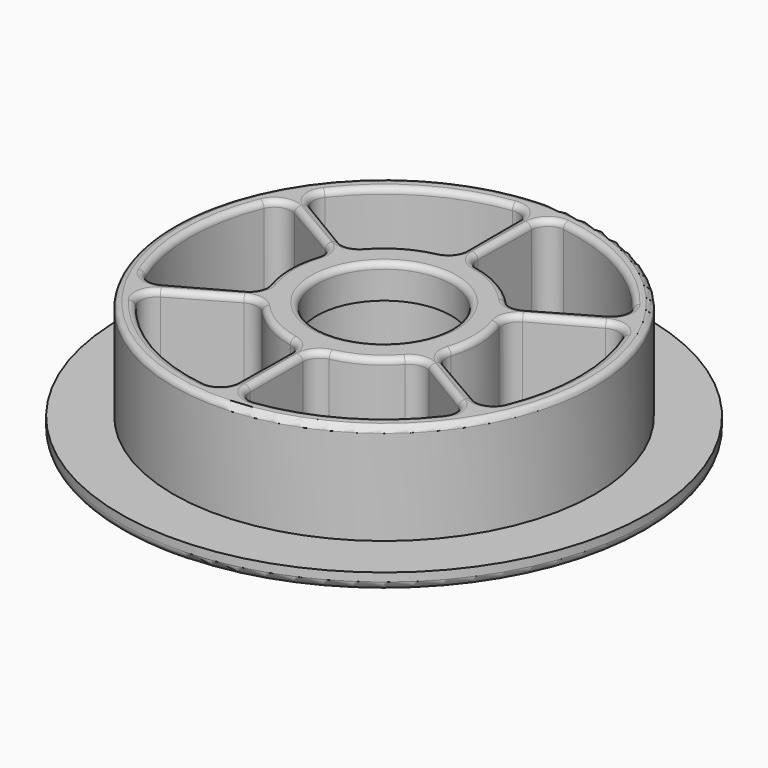
from build123d import *

# Parameters (mm, degrees)
F0_R     = 31.5
F0_R_2   = 25.15
F1_DEPTH = 2
F0_R_3   = 9.7
F2_DEPTH = 14
F0_R_4   = 8
F3_DEPTH = 14
F4_DEPTH = 10
F5_R     = 1
F6_R     = 0.7


with BuildPart() as f1:
    # F0 (on Top) → F1 (new body)
    with BuildSketch(Plane.XY):
        Circle(F0_R)
        Circle(F0_R_2, mode=Mode.SUBTRACT)
    extrude(amount=F1_DEPTH)

    # F0 (on Top) → F2 (join)
    with BuildSketch(Plane.XY):
        Circle(F0_R_2)
        with BuildLine():
            ThreePointArc((-18.3511541082, -14.1123223779), (-18.7275186797, -12.5039761813), (-17.7657412263, -11.1610644535))
            Line((-17.7657412263, -11.1610644535), (-10.9508618467, -7.2264920092))
            ThreePointArc((-10.9508618467, -7.2264920092), (-9.6379242044, -6.9831770197), (-8.464479098, -7.6203850067))
            ThreePointArc((-8.464479098, -7.6203850067), (-5.6488947275, -9.8897756501), (-2.2638099833, -11.1621162156))
            ThreePointArc((-2.2638099833, -11.1621162156), (-1.1031831853, -11.8683580148), (-0.6615805271, -13.1532000812))
            Line((-0.6615805271, -13.1532000812), (-0.78313484, -20.997105041))
            ThreePointArc((-0.78313484, -20.997105041), (-1.4766966142, -22.4806604152), (-3.0460526316, -22.9487268354))
            ThreePointArc((-3.0460526316, -22.9487268354), (-11.575, -20.0484880976), (-18.3511541082, -14.1123223779))
        make_face(mode=Mode.SUBTRACT)
        with BuildLine():
            Line((0.7828947368, -20.9661154457), (0.7828947368, -13.0969705571))
            ThreePointArc((0.7828947368, -13.0969705571), (1.228646596, -11.8382757106), (2.3672074535, -11.140646432))
            ThreePointArc((2.3672074535, -11.140646432), (5.740349587, -9.8369741623), (8.534771211, -7.5415750627))
            ThreePointArc((8.534771211, -7.5415750627), (9.7267079494, -6.8895636709), (11.0602151478, -7.1495455838))
            Line((11.0602151478, -7.1495455838), (17.7924589514, -11.1767671865))
            ThreePointArc((17.7924589514, -11.1767671865), (18.7304747063, -12.5191869892), (18.3511541082, -14.1123223779))
            ThreePointArc((18.3511541082, -14.1123223779), (11.575, -20.0484880976), (3.0460526316, -22.9487268354))
            ThreePointArc((3.0460526316, -22.9487268354), (1.4650016815, -22.4704950171), (0.7828947368, -20.9661154457))
        make_face(mode=Mode.SUBTRACT)
        with BuildLine():
            ThreePointArc((-21.3972067398, 8.8364044575), (-20.1925203612, 9.9665188358), (-18.5486359631, 9.8050509923))
            Line((-18.5486359631, 9.8050509923), (-11.7337565835, 5.870478548))
            ThreePointArc((-11.7337565835, 5.870478548), (-10.8665708004, 4.8550986909), (-10.8316865514, 3.5202614253))
            ThreePointArc((-10.8316865514, 3.5202614253), (-11.3892443144, -0.0528014877), (-10.7985811944, -3.6205411529))
            ThreePointArc((-10.7985811944, -3.6205411529), (-10.8298911347, -4.9787943439), (-11.721795675, -6.0036544975))
            Line((-11.721795675, -6.0036544975), (-18.5755937915, -9.8203378545))
            ThreePointArc((-18.5755937915, -9.8203378545), (-20.2071713205, -9.961473426), (-21.3972067398, -8.8364044575))
            ThreePointArc((-21.3972067398, -8.8364044575), (-23.15, 0), (-21.3972067398, 8.8364044575))
        make_face(mode=Mode.SUBTRACT)
        with BuildLine():
            ThreePointArc((-3.0460526316, 22.9487268354), (-1.4650016815, 22.4704950171), (-0.7828947368, 20.9661154457))
            Line((-0.7828947368, 20.9661154457), (-0.7828947368, 13.0969705571))
            ThreePointArc((-0.7828947368, 13.0969705571), (-1.228646596, 11.8382757106), (-2.3672074535, 11.140646432))
            ThreePointArc((-2.3672074535, 11.140646432), (-5.740349587, 9.8369741623), (-8.534771211, 7.5415750627))
            ThreePointArc((-8.534771211, 7.5415750627), (-9.7267079494, 6.8895636709), (-11.0602151478, 7.1495455838))
            Line((-11.0602151478, 7.1495455838), (-17.7924589514, 11.1767671865))
            ThreePointArc((-17.7924589514, 11.1767671865), (-18.7304747063, 12.5191869892), (-18.3511541082, 14.1123223779))
            ThreePointArc((-18.3511541082, 14.1123223779), (-11.575, 20.0484880976), (-3.0460526316, 22.9487268354))
        make_face(mode=Mode.SUBTRACT)
        Circle(F0_R_3, mode=Mode.SUBTRACT)
        with BuildLine():
            ThreePointArc((18.3511541082, 14.1123223779), (18.7275186797, 12.5039761813), (17.7657412263, 11.1610644535))
            Line((17.7657412263, 11.1610644535), (10.9508618467, 7.2264920092))
            ThreePointArc((10.9508618467, 7.2264920092), (9.6379242044, 6.9831770197), (8.464479098, 7.6203850067))
            ThreePointArc((8.464479098, 7.6203850067), (5.6488947275, 9.8897756501), (2.2638099833, 11.1621162156))
            ThreePointArc((2.2638099833, 11.1621162156), (1.1031831853, 11.8683580148), (0.6615805271, 13.1532000812))
            Line((0.6615805271, 13.1532000812), (0.78313484, 20.997105041))
            ThreePointArc((0.78313484, 20.997105041), (1.4766966142, 22.4806604152), (3.0460526316, 22.9487268354))
            ThreePointArc((3.0460526316, 22.9487268354), (11.575, 20.0484880976), (18.3511541082, 14.1123223779))
        make_face(mode=Mode.SUBTRACT)
        with BuildLine():
            ThreePointArc((21.3972067398, -8.8364044575), (20.1925203612, -9.9665188358), (18.5486359631, -9.8050509923))
            Line((18.5486359631, -9.8050509923), (11.7337565835, -5.870478548))
            ThreePointArc((11.7337565835, -5.870478548), (10.8665708004, -4.8550986909), (10.8316865514, -3.5202614253))
            ThreePointArc((10.8316865514, -3.5202614253), (11.3892443144, 0.0528014877), (10.7985811944, 3.6205411529))
            ThreePointArc((10.7985811944, 3.6205411529), (10.8298911347, 4.9787943439), (11.721795675, 6.0036544975))
            Line((11.721795675, 6.0036544975), (18.5755937915, 9.8203378545))
            ThreePointArc((18.5755937915, 9.8203378545), (20.2071713205, 9.961473426), (21.3972067398, 8.8364044575))
            ThreePointArc((21.3972067398, 8.8364044575), (23.15, 0), (21.3972067398, -8.8364044575))
        make_face(mode=Mode.SUBTRACT)
    extrude(amount=F2_DEPTH)

    # F0 (on Top) → F3 (join)
    with BuildSketch(Plane.XY):
        Circle(F0_R_3)
        Circle(F0_R_4, mode=Mode.SUBTRACT)
    extrude(amount=F3_DEPTH)

    # F0 (on Top) → F4 (cut)
    with BuildSketch(Plane.XY):
        Circle(F0_R_3)
        Circle(F0_R_4, mode=Mode.SUBTRACT)
    extrude(amount=F4_DEPTH, mode=Mode.SUBTRACT)

    # F5
    f5_edges = [f1.edges().sort_by_distance(p)[0] for p in [
        (-31.5, 0, 0),
    ]]
    fillet(f5_edges, radius=F5_R)

    # F6
    f6_edges = [f1.edges().sort_by_distance(p)[0] for p in [
        (-25.15, 0, 14),
        (-18.727519, -12.503976, 14),
        (-14.358302, -9.193778, 14),
        (-9.637924, -6.983177, 14),
        (-5.648895, -9.889776, 14),
        (-1.103183, -11.868358, 14),
        (-0.722358, -17.075153, 14),
        (-1.476697, -22.48066, 14),
        (-11.575, -20.048488, 14),
        (1.465002, -22.470495, 14),
        (0.782895, -17.031543, 14),
        (1.228647, -11.838276, 14),
        (5.74035, -9.836974, 14),
        (9.726708, -6.889564, 14),
        (14.426337, -9.163156, 14),
        (18.730475, -12.519187, 14),
        (11.575, -20.048488, 14),
        (-23.15, 0, 14),
        (-20.19252, 9.966519, 14),
        (-15.141196, 7.837765, 14),
        (-10.866571, 4.855099, 14),
        (-11.389244, -0.052801, 14),
        (-10.829891, -4.978794, 14),
        (-15.148695, -7.911996, 14),
        (-20.207171, -9.961473, 14),
        (-18.730475, 12.519187, 14),
        (-11.575, 20.048488, 14),
        (-1.465002, 22.470495, 14),
        (-0.782895, 17.031543, 14),
        (-1.228647, 11.838276, 14),
        (-5.74035, 9.836974, 14),
        (-9.726708, 6.889564, 14),
        (-14.426337, 9.163156, 14),
        (11.575, 20.048488, 14),
        (18.727519, 12.503976, 14),
        (14.358302, 9.193778, 14),
        (9.637924, 6.983177, 14),
        (5.648895, 9.889776, 14),
        (1.103183, 11.868358, 14),
        (0.722358, 17.075153, 14),
        (1.476697, 22.48066, 14),
        (23.15, 0, 14),
        (20.19252, -9.966519, 14),
        (15.141196, -7.837765, 14),
        (10.866571, -4.855099, 14),
        (11.389244, 0.052801, 14),
        (10.829891, 4.978794, 14),
        (15.148695, 7.911996, 14),
        (20.207171, 9.961473, 14),
        (-8, 0, 14),
        (-30.5, 0, 0),
        (-18.727519, -12.503976, 0),
        (-11.575, -20.048488, 0),
        (-14.358302, -9.193778, 0),
        (-1.476697, -22.48066, 0),
        (-9.637924, -6.983177, 0),
        (-0.722358, -17.075153, 0),
        (-5.648895, -9.889776, 0),
        (-1.103183, -11.868358, 0),
        (1.465002, -22.470495, 0),
        (11.575, -20.048488, 0),
        (0.782895, -17.031543, 0),
        (18.730475, -12.519187, 0),
        (1.228647, -11.838276, 0),
        (14.426337, -9.163156, 0),
        (5.74035, -9.836974, 0),
        (9.726708, -6.889564, 0),
        (-23.15, 0, 0),
        (-20.207171, -9.961473, 0),
        (-20.19252, 9.966519, 0),
        (-15.148695, -7.911996, 0),
        (-15.141196, 7.837765, 0),
        (-10.829891, -4.978794, 0),
        (-10.866571, 4.855099, 0),
        (-11.389244, -0.052801, 0),
        (-18.730475, 12.519187, 0),
        (-14.426337, 9.163156, 0),
        (-11.575, 20.048488, 0),
        (-9.726708, 6.889564, 0),
        (-1.465002, 22.470495, 0),
        (-5.74035, 9.836974, 0),
        (-0.782895, 17.031543, 0),
        (-1.228647, 11.838276, 0),
        (-9.7, 0, 0),
        (20.207171, 9.961473, 0),
        (15.148695, 7.911996, 0),
        (23.15, 0, 0),
        (10.829891, 4.978794, 0),
        (20.19252, -9.966519, 0),
        (11.389244, 0.052801, 0),
        (15.141196, -7.837765, 0),
        (10.866571, -4.855099, 0),
        (11.575, 20.048488, 0),
        (1.476697, 22.48066, 0),
        (18.727519, 12.503976, 0),
        (0.722358, 17.075153, 0),
        (14.358302, 9.193778, 0),
        (1.103183, 11.868358, 0),
        (9.637924, 6.983177, 0),
        (5.648895, 9.889776, 0),
    ]]
    fillet(f6_edges, radius=F6_R)


solid = f1.part
